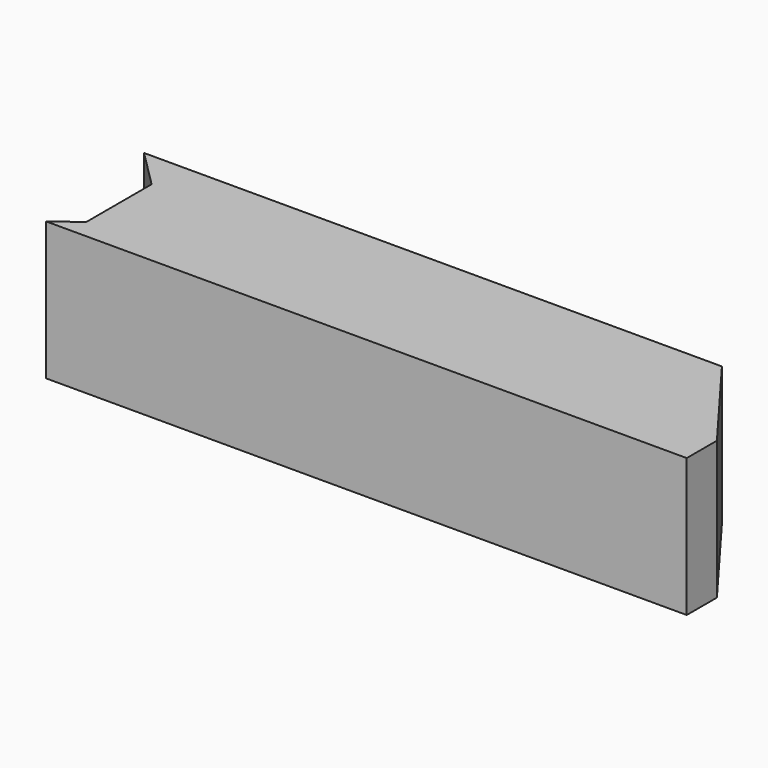
from build123d import *

# Parameters (mm, degrees)
F0_W     = 5.5
F0_H     = 5.5
F1_DEPTH = 13
F3_DEPTH = 5.501


with BuildPart() as f1:
    # F0 (on Right) → F1 (new body, symmetric)
    with BuildSketch(Plane.YZ):
        with Locations((2.75, -2.75)):
            Rectangle(F0_W, F0_H)
    extrude(amount=F1_DEPTH, both=True)

    # F2 (on face) → F3 (cut, through all)
    with BuildSketch(Plane.XY):
        Polygon((-11.5, 4), (-13, 5.5), (-13, 0), (-12.5, 0), (-11.5, 0.75), align=None)
        Polygon((13, 5.5), (10, 5.5), (13, 1.5), align=None)
    extrude(amount=-F3_DEPTH, mode=Mode.SUBTRACT)


solid = f1.part
